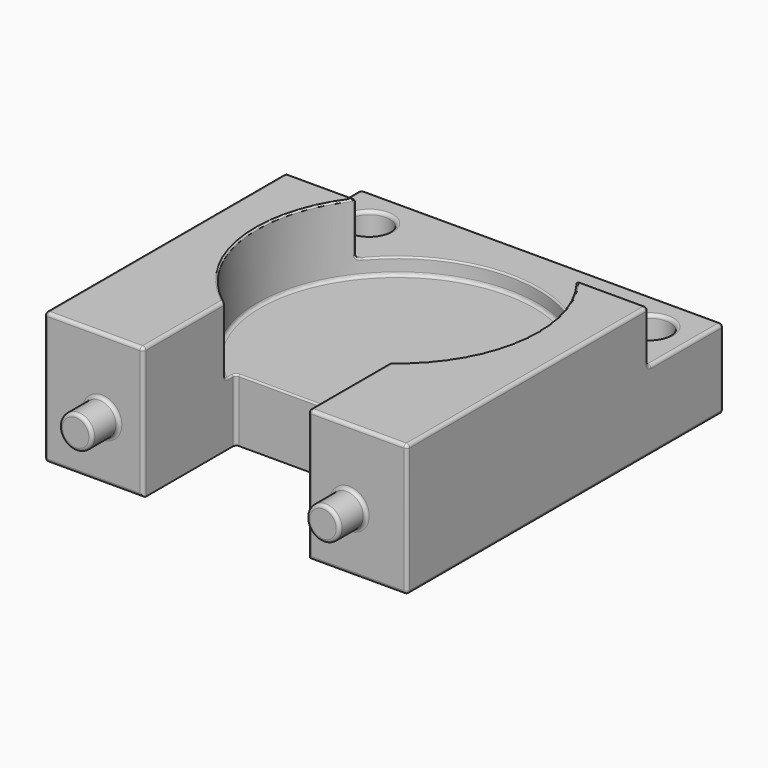
from build123d import *

# Parameters (mm, degrees)
CYLINDER011_R     = 1.25
CYLINDER011_DEPTH = 12
CYLINDER010_R     = 1.25
CYLINDER010_DEPTH = 12
CYLINDER008_R     = 8.5
CYLINDER008_DEPTH = 7.2
FILLET012_R       = 0.2
BOX004_W          = 24
BOX004_H          = 5.7
BOX004_DEPTH      = 10
BOX001_W          = 10
BOX001_H          = 7
BOX001_DEPTH      = 10
BOX_W             = 22
BOX_H             = 24
BOX_DEPTH         = 8
CYLINDER009_R     = 1
CYLINDER009_DEPTH = 2
CYLINDER007_R     = 1
CYLINDER007_DEPTH = 2
FILLET011_R       = 0.2
FILLET_R          = 0.2
FILLET031_R       = 0.1


with BuildPart() as cylinder011:
    # Cylinder011 → Cylinder011 (new body)
    with BuildSketch(Plane(origin=(-8.5, 8.5, -3), x_dir=(1, 0, 0), z_dir=(0, 0, 1))):
        Circle(CYLINDER011_R)
    extrude(amount=CYLINDER011_DEPTH)


with BuildPart() as fusion:
    # Cylinder010 → Cylinder010 (new body)
    with BuildSketch(Plane(origin=(8.5, 8.5, -3), x_dir=(1, 0, 0), z_dir=(0, 0, 1))):
        Circle(CYLINDER010_R)
    extrude(amount=CYLINDER010_DEPTH)

    # Fusion: union Cylinder011
    add(cylinder011.part)


with BuildPart() as fillet012:
    # Cylinder008 → Cylinder008 (new body)
    with BuildSketch(Plane.XY.offset(2.8)):
        Circle(CYLINDER008_R)
    extrude(amount=CYLINDER008_DEPTH)

    # Fillet012
    fillet012_edges = [fillet012.edges().sort_by_distance(p)[0] for p in [
        (-8.5, 0, 2.8),
    ]]
    fillet(fillet012_edges, radius=FILLET012_R)


with BuildPart() as rear_space_with_tolerance:
    # Box004 → Box004 (new body)
    with BuildSketch(Plane(origin=(-12, 5.3, 3.8), x_dir=(1, 0, 0), z_dir=(0, 0, 1))):
        with Locations((12, 2.85)):
            Rectangle(BOX004_W, BOX004_H)
    extrude(amount=BOX004_DEPTH)


with BuildPart() as space_between_arms:
    # Box001 → Box001 (new body)
    with BuildSketch(Plane(origin=(-5, -13, -2), x_dir=(1, 0, 0), z_dir=(0, 0, 1))):
        with Locations((5, 3.5)):
            Rectangle(BOX001_W, BOX001_H)
    extrude(amount=BOX001_DEPTH)


with BuildPart() as cut001:
    # Box → Box (new body)
    with BuildSketch(Plane(origin=(-11, -13, -1), x_dir=(1, 0, 0), z_dir=(0, 0, 1))):
        with Locations((11, 12)):
            Rectangle(BOX_W, BOX_H)
    extrude(amount=BOX_DEPTH)

    # Cut: cut Space between arms
    add(space_between_arms.part, mode=Mode.SUBTRACT)

    # Cut001: cut Rear Space with tolerance
    add(rear_space_with_tolerance.part, mode=Mode.SUBTRACT)


with BuildPart() as cylinder009:
    # Cylinder009 → Cylinder009 (new body)
    with BuildSketch(Plane(origin=(-7.5, -10, 2.5), x_dir=(1, 0, 0), z_dir=(0, -1, 0))):
        Circle(CYLINDER009_R)
    extrude(amount=CYLINDER009_DEPTH)


with BuildPart() as base:
    # Cylinder007 → Cylinder007 (new body)
    with BuildSketch(Plane(origin=(7.5, -10, 2.5), x_dir=(1, 0, 0), z_dir=(0, -1, 0))):
        Circle(CYLINDER007_R)
    extrude(amount=CYLINDER007_DEPTH)

    # Fusion002: union Cylinder009
    add(cylinder009.part)


with BuildPart() as base_1:
    # Fusion002 placement: moved
    add(base.part.moved(Location((0, -3, 0))))

    # Fusion003: union Cut001
    add(cut001.part)

    # Fillet011
    fillet011_edges = [base_1.edges().sort_by_distance(p)[0] for p in [
        (6.5, -13, 2.5),
        (6.5, -15, 2.5),
        (8, -13, -1),
        (5, -13, 3),
        (11, -13, 3),
        (8, -13, 7),
        (0, 11, -1),
        (11, -1, -1),
        (0, 11, 3.8),
        (-8.5, -13, 2.5),
        (-11, -13, 3),
        (-8, -13, -1),
        (-11, -1, -1),
        (5, -9.5, 7),
        (5, -6, 3),
        (11, -3.85, 7),
        (11, 5.3, 5.4),
        (11, 8.15, 3.8),
        (11, 11, 1.4),
        (0, 5.3, 7),
        (0, -6, 7),
        (-5, -9.5, 7),
        (-8, -13, 7),
        (-11, -3.85, 7),
        (-11, 11, 1.4),
        (-5, -6, 3),
        (-5, -13, 3),
        (-11, 5.3, 5.4),
        (-11, 8.15, 3.8),
        (0, 5.3, 3.8),
        (-8.5, -15, 2.5),
    ]]
    fillet(fillet011_edges, radius=FILLET011_R)

    # Cut005: cut Fillet012
    add(fillet012.part, mode=Mode.SUBTRACT)

    # Cut014: cut Fusion
    add(fusion.part, mode=Mode.SUBTRACT)

    # Fillet
    fillet_edges = [base_1.edges().sort_by_distance(p)[0] for p in [
        (-9.75, 8.5, -1),
        (7.25, 8.5, -1),
        (-9.75, 8.5, 3.8),
        (7.25, 8.5, 3.8),
    ]]
    fillet(fillet_edges, radius=FILLET_R)

    # Fillet031
    fillet031_edges = [base_1.edges().sort_by_distance(p)[0] for p in [
        (5, -6.873864, 4.9),
        (5, -6.791385, 2.851024),
        (5, -6.412476, 2.8),
        (4.941421, -6.058579, 2.8),
        (0, -6, 2.8),
        (-4.941421, -6.058579, 2.8),
        (-5, -6.873864, 4.9),
        (-5, -6.791385, 2.851024),
        (-5, -6.412476, 2.8),
        (5.066843, -6.824742, 6.949229),
        (7.630531, -3.744997, 7),
        (-5.066843, -6.824742, 6.949229),
        (-8.423229, -1.13983, 7),
        (-6.697881, 5.233391, 6.949019),
        (-6.645299, 5.3, 5.4),
        (-6.590381, 5.368135, 3.849628),
        (0, 8.5, 3.8),
        (6.590381, 5.368135, 3.849628),
        (6.645299, 5.3, 5.4),
        (6.697881, 5.233391, 6.949019),
        (8.063808, 2.687936, 7),
    ]]
    fillet(fillet031_edges, radius=FILLET031_R)


solid = base_1.part
